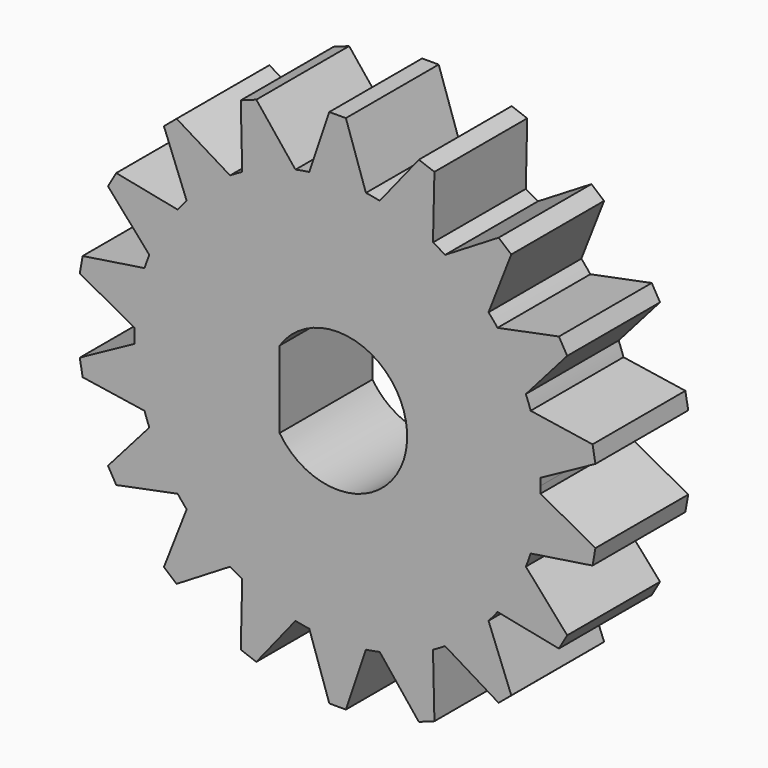
from build123d import *

# Parameters (mm, degrees)
F1_DEPTH = 2.54


with BuildPart() as f1:
    # F0 (on Front) → F1 (new body, symmetric)
    with BuildSketch(Plane.XZ):
        with BuildLine():
            ThreePointArc((8.884708, -0.306712), (8.888677, -0.153379), (8.89, 0))
            ThreePointArc((8.89, 0), (8.888677, 0.153379), (8.884708, 0.306712))
            ThreePointArc((8.884708, 0.306712), (8.754941, 1.543732), (8.453796, 2.750534))
            ThreePointArc((8.453796, 2.750534), (8.353867, 3.040559), (8.243992, 3.326964))
            ThreePointArc((8.243992, 3.326964), (7.698966, 4.445), (7.003232, 5.476025))
            ThreePointArc((7.003232, 5.476025), (6.810135, 5.714382), (6.60893, 5.945935))
            ThreePointArc((6.60893, 5.945935), (5.714382, 6.810135), (4.707974, 7.541026))
            ThreePointArc((4.707974, 7.541026), (4.445, 7.698966), (4.176733, 7.847739))
            ThreePointArc((4.176733, 7.847739), (3.040559, 8.353867), (1.844866, 8.696469))
            ThreePointArc((1.844866, 8.696469), (1.543732, 8.754941), (1.240761, 8.802989))
            ThreePointArc((1.240761, 8.802989), (0, 8.89), (-1.240761, 8.802989))
            ThreePointArc((-1.240761, 8.802989), (-1.543732, 8.754941), (-1.844866, 8.696469))
            ThreePointArc((-1.844866, 8.696469), (-3.040559, 8.353867), (-4.176733, 7.847739))
            ThreePointArc((-4.176733, 7.847739), (-4.445, 7.698966), (-4.707974, 7.541026))
            ThreePointArc((-4.707974, 7.541026), (-5.714382, 6.810135), (-6.60893, 5.945935))
            ThreePointArc((-6.60893, 5.945935), (-6.810135, 5.714382), (-7.003232, 5.476025))
            ThreePointArc((-7.003232, 5.476025), (-7.698966, 4.445), (-8.243992, 3.326964))
            ThreePointArc((-8.243992, 3.326964), (-8.353867, 3.040559), (-8.453796, 2.750534))
            ThreePointArc((-8.453796, 2.750534), (-8.754941, 1.543732), (-8.884708, 0.306712))
            ThreePointArc((-8.884708, 0.306712), (-8.89, 0), (-8.884708, -0.306712))
            ThreePointArc((-8.884708, -0.306712), (-8.754941, -1.543732), (-8.453796, -2.750534))
            ThreePointArc((-8.453796, -2.750534), (-8.353867, -3.040559), (-8.243992, -3.326964))
            ThreePointArc((-8.243992, -3.326964), (-7.698966, -4.445), (-7.003232, -5.476025))
            ThreePointArc((-7.003232, -5.476025), (-6.810135, -5.714382), (-6.60893, -5.945935))
            ThreePointArc((-6.60893, -5.945935), (-5.714382, -6.810135), (-4.707974, -7.541026))
            ThreePointArc((-4.707974, -7.541026), (-4.445, -7.698966), (-4.176733, -7.847739))
            ThreePointArc((-4.176733, -7.847739), (-3.040559, -8.353867), (-1.844866, -8.696469))
            ThreePointArc((-1.844866, -8.696469), (-1.543732, -8.754941), (-1.240761, -8.802989))
            ThreePointArc((-1.240761, -8.802989), (0, -8.89), (1.240761, -8.802989))
            ThreePointArc((1.240761, -8.802989), (1.543732, -8.754941), (1.844866, -8.696469))
            ThreePointArc((1.844866, -8.696469), (3.040559, -8.353867), (4.176733, -7.847739))
            ThreePointArc((4.176733, -7.847739), (4.445, -7.698966), (4.707974, -7.541026))
            ThreePointArc((4.707974, -7.541026), (5.714382, -6.810135), (6.60893, -5.945935))
            ThreePointArc((6.60893, -5.945935), (6.810135, -5.714382), (7.003232, -5.476025))
            ThreePointArc((7.003232, -5.476025), (7.698966, -4.445), (8.243992, -3.326964))
            ThreePointArc((8.243992, -3.326964), (8.353867, -3.040559), (8.453796, -2.750534))
            ThreePointArc((8.453796, -2.750534), (8.754941, -1.543732), (8.884708, -0.306712))
        make_face()
        with BuildLine():
            ThreePointArc((-2.54, 1.684845), (3.048, 0), (-2.54, -1.684845))
            Line((-2.54, -1.684845), (-2.54, 1.684845))
        make_face(mode=Mode.SUBTRACT)
        with BuildLine():
            ThreePointArc((1.844866, 8.696469), (3.040559, 8.353867), (4.176733, 7.847739))
            Line((4.176733, 7.847739), (4.239865, 10.588624))
            Line((4.239865, 10.588624), (3.558311, 10.83669))
            Line((3.558311, 10.83669), (1.844866, 8.696469))
        make_face()
        with BuildLine():
            ThreePointArc((-1.240761, 8.802989), (0, 8.89), (1.240761, 8.802989))
            Line((1.240761, 8.802989), (0.362647, 11.400172))
            Line((0.362647, 11.400172), (-0.362647, 11.400172))
            Line((-0.362647, 11.400172), (-1.240761, 8.802989))
        make_face()
        with BuildLine():
            ThreePointArc((-4.176733, 7.847739), (-3.040559, 8.353867), (-1.844866, 8.696469))
            Line((-1.844866, 8.696469), (-3.558311, 10.83669))
            Line((-3.558311, 10.83669), (-4.239865, 10.588624))
            Line((-4.239865, 10.588624), (-4.176733, 7.847739))
        make_face()
        with BuildLine():
            ThreePointArc((-6.60893, 5.945935), (-5.714382, 6.810135), (-4.707974, 7.541026))
            Line((-4.707974, 7.541026), (-7.050085, 8.966143))
            Line((-7.050085, 8.966143), (-7.605693, 8.499933))
            Line((-7.605693, 8.499933), (-6.60893, 5.945935))
        make_face()
        with BuildLine():
            ThreePointArc((-8.243992, 3.326964), (-7.698966, 4.445), (-7.003232, 5.476025))
            Line((-7.003232, 5.476025), (-9.691514, 6.014148))
            Line((-9.691514, 6.014148), (-10.054162, 5.386024))
            Line((-10.054162, 5.386024), (-8.243992, 3.326964))
        make_face()
        with BuildLine():
            ThreePointArc((-8.884708, 0.306712), (-8.754941, 1.543732), (-8.453796, 2.750534))
            Line((-8.453796, 2.750534), (-11.164004, 2.336757))
            Line((-11.164004, 2.336757), (-11.28995, 1.622481))
            Line((-11.28995, 1.622481), (-8.884708, 0.306712))
        make_face()
        with BuildLine():
            Line((-11.164004, -2.336757), (-8.453796, -2.750534))
            ThreePointArc((-8.453796, -2.750534), (-8.754941, -1.543732), (-8.884708, -0.306712))
            Line((-8.884708, -0.306712), (-11.28995, -1.622481))
            Line((-11.28995, -1.622481), (-11.164004, -2.336757))
        make_face()
        with BuildLine():
            Line((-9.691514, -6.014148), (-7.003232, -5.476025))
            ThreePointArc((-7.003232, -5.476025), (-7.698966, -4.445), (-8.243992, -3.326964))
            Line((-8.243992, -3.326964), (-10.054162, -5.386024))
            Line((-10.054162, -5.386024), (-9.691514, -6.014148))
        make_face()
        with BuildLine():
            Line((-7.050085, -8.966143), (-4.707974, -7.541026))
            ThreePointArc((-4.707974, -7.541026), (-5.714382, -6.810135), (-6.60893, -5.945935))
            Line((-6.60893, -5.945935), (-7.605693, -8.499933))
            Line((-7.605693, -8.499933), (-7.050085, -8.966143))
        make_face()
        with BuildLine():
            Line((-3.558311, -10.83669), (-1.844866, -8.696469))
            ThreePointArc((-1.844866, -8.696469), (-3.040559, -8.353867), (-4.176733, -7.847739))
            Line((-4.176733, -7.847739), (-4.239865, -10.588624))
            Line((-4.239865, -10.588624), (-3.558311, -10.83669))
        make_face()
        with BuildLine():
            Line((4.239865, -10.588624), (4.176733, -7.847739))
            ThreePointArc((4.176733, -7.847739), (3.040559, -8.353867), (1.844866, -8.696469))
            Line((1.844866, -8.696469), (3.558311, -10.83669))
            Line((3.558311, -10.83669), (4.239865, -10.588624))
        make_face()
        with BuildLine():
            Line((7.605693, -8.499933), (6.60893, -5.945935))
            ThreePointArc((6.60893, -5.945935), (5.714382, -6.810135), (4.707974, -7.541026))
            Line((4.707974, -7.541026), (7.050085, -8.966143))
            Line((7.050085, -8.966143), (7.605693, -8.499933))
        make_face()
        with BuildLine():
            Line((10.054162, -5.386024), (8.243992, -3.326964))
            ThreePointArc((8.243992, -3.326964), (7.698966, -4.445), (7.003232, -5.476025))
            Line((7.003232, -5.476025), (9.691514, -6.014148))
            Line((9.691514, -6.014148), (10.054162, -5.386024))
        make_face()
        with BuildLine():
            Line((11.28995, -1.622481), (8.884708, -0.306712))
            ThreePointArc((8.884708, -0.306712), (8.754941, -1.543732), (8.453796, -2.750534))
            Line((8.453796, -2.750534), (11.164004, -2.336757))
            Line((11.164004, -2.336757), (11.28995, -1.622481))
        make_face()
        with BuildLine():
            ThreePointArc((7.003232, 5.476025), (7.698966, 4.445), (8.243992, 3.326964))
            Line((8.243992, 3.326964), (10.054162, 5.386024))
            Line((10.054162, 5.386024), (9.691514, 6.014148))
            Line((9.691514, 6.014148), (7.003232, 5.476025))
        make_face()
        with BuildLine():
            ThreePointArc((4.707974, 7.541026), (5.714382, 6.810135), (6.60893, 5.945935))
            Line((6.60893, 5.945935), (7.605693, 8.499933))
            Line((7.605693, 8.499933), (7.050085, 8.966143))
            Line((7.050085, 8.966143), (4.707974, 7.541026))
        make_face()
        with BuildLine():
            ThreePointArc((8.453796, 2.750534), (8.754941, 1.543732), (8.884708, 0.306712))
            Line((8.884708, 0.306712), (11.28995, 1.622481))
            Line((11.28995, 1.622481), (11.164004, 2.336757))
            Line((11.164004, 2.336757), (8.453796, 2.750534))
        make_face()
        with BuildLine():
            Line((0.362647, -11.400172), (1.240761, -8.802989))
            ThreePointArc((1.240761, -8.802989), (0, -8.89), (-1.240761, -8.802989))
            Line((-1.240761, -8.802989), (-0.362647, -11.400172))
            Line((-0.362647, -11.400172), (0.362647, -11.400172))
        make_face()
    extrude(amount=F1_DEPTH, both=True)


solid = f1.part
